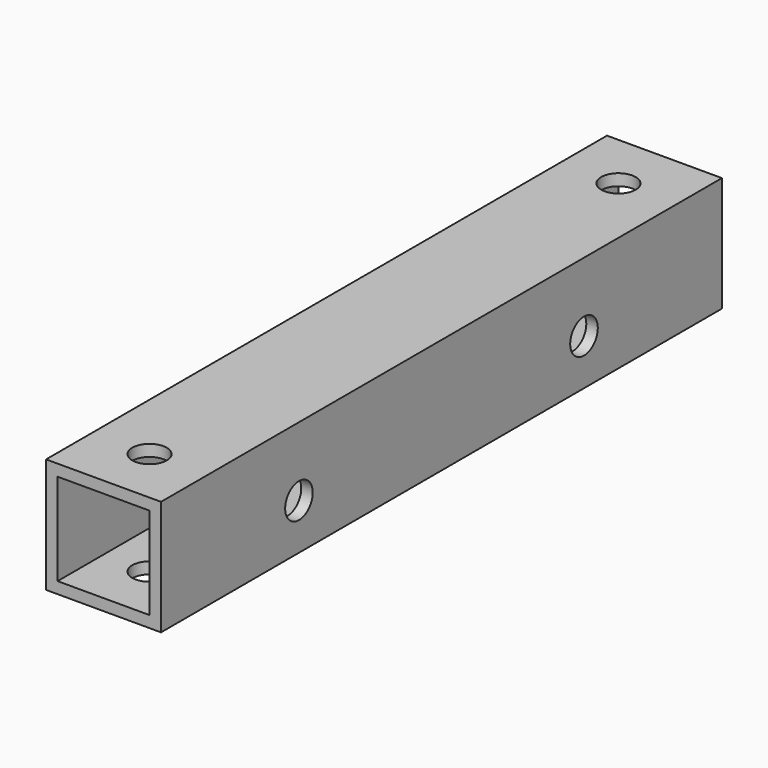
from build123d import *

# Parameters (mm, degrees)
F0_W     = 10
F0_H     = 10
F0_W_2   = 8
F0_H_2   = 8
F1_DEPTH = 61
F2_R     = 1.5
F3_DEPTH = 25
F4_R     = 1.5
F5_DEPTH = 25


with BuildPart() as f1:
    # F0 (on Front) → F1 (new body)
    with BuildSketch(Plane.XZ):
        Rectangle(F0_W, F0_H)
        Rectangle(F0_W_2, F0_H_2, mode=Mode.SUBTRACT)
    extrude(amount=F1_DEPTH)

    # F2 (on face) → F3 (cut)
    with BuildSketch(Plane.XY.offset(5)):
        with Locations((0, -5)):
            Circle(F2_R)
        with Locations((0, -56)):
            Circle(F2_R)
    extrude(amount=-F3_DEPTH, mode=Mode.SUBTRACT)

    # F4 (on face) → F5 (cut)
    with BuildSketch(Plane.YZ.offset(5)):
        with Locations((-15, -1)):
            Circle(F4_R)
        with Locations((-46, -1)):
            Circle(F4_R)
    extrude(amount=-F5_DEPTH, mode=Mode.SUBTRACT)


solid = f1.part
